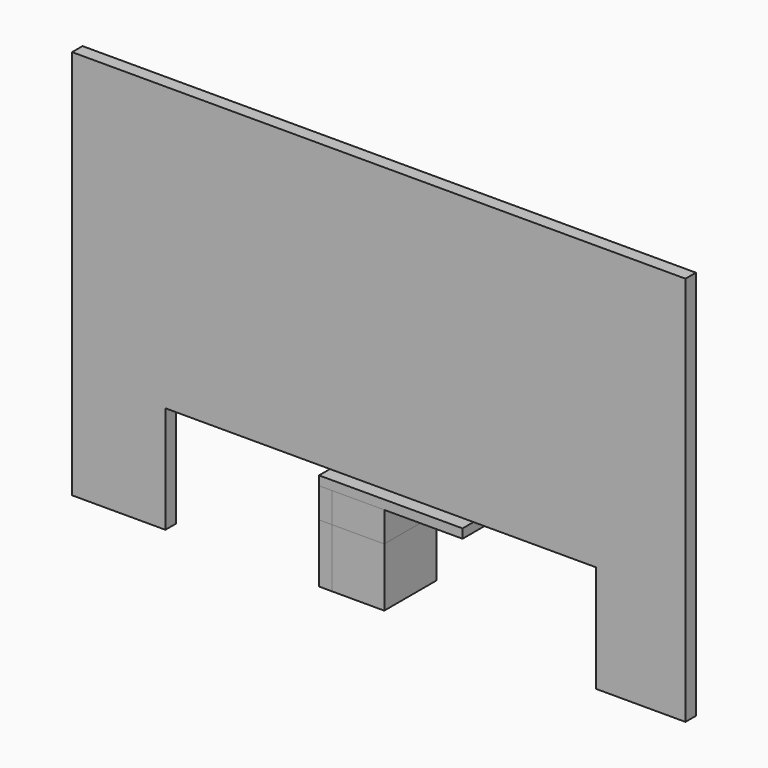
from build123d import *

# Parameters (mm, degrees)
F2_DEPTH = 10
F0_W     = 40
F0_H     = 45
F3_DEPTH = 50
F4_DEPTH = 50
F0_W_2   = 10
F5_DEPTH = 50
F0_H_2   = 23
F6_DEPTH = 50
F7_DEPTH = 50


with BuildPart() as f2:
    # F0 (on Front) → F2 (new body)
    with BuildSketch(Plane.XZ):
        Polygon((-74.2268053811, 299), (-74.2268053811, 0), (-2.7509614592, 0), (-2.7509614592, 82), (327.2490385408, 82), (327.2490385408, 0), (395.7731946189, 0), (395.7731946189, 299), align=None)
    extrude(amount=-F2_DEPTH)


with BuildPart() as f3:
    # F0 (on Front) → F3 (new body)
    with BuildSketch(Plane.XZ):
        with Locations((144.9680732191, 22.5)):
            Rectangle(F0_W, F0_H)
    extrude(amount=-F3_DEPTH)


with BuildPart() as f4:
    # F0 (on Front) → F4 (new body)
    with BuildSketch(Plane.XZ):
        Polygon((114.9680732191, 75), (114.9680732191, 68), (124.9680732191, 68), (164.9680732191, 68), (224.9680732191, 68), (224.9680732191, 75), align=None)
    extrude(amount=-F4_DEPTH)


with BuildPart() as f5:
    # F0 (on Front) → F5 (new body)
    with BuildSketch(Plane.XZ):
        with Locations((119.9680732191, 22.5)):
            Rectangle(F0_W_2, F0_H)
    extrude(amount=-F5_DEPTH)


with BuildPart() as f6:
    # F0 (on Front) → F6 (new body)
    with BuildSketch(Plane.XZ):
        with Locations((144.9680732191, 56.5)):
            Rectangle(F0_W, F0_H_2)
    extrude(amount=-F6_DEPTH)


with BuildPart() as f7:
    # F0 (on Front) → F7 (new body)
    with BuildSketch(Plane.XZ):
        with Locations((119.9680732191, 56.5)):
            Rectangle(F0_W_2, F0_H_2)
    extrude(amount=-F7_DEPTH)


solid = Compound([f2.part, f3.part, f4.part, f5.part, f6.part, f7.part])
